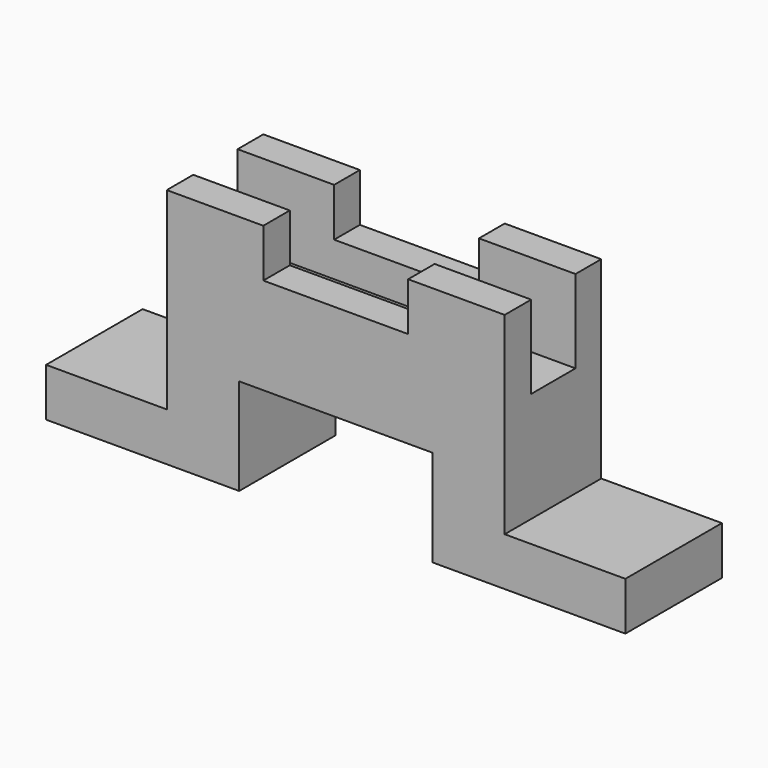
from build123d import *

# Parameters (mm, degrees)
F1_DEPTH = 25
F2_W     = 11.483927
F2_H     = 17.204142
F3_DEPTH = 76.6


with BuildPart() as f1:
    # F0 (on Front) → F1 (new body)
    with BuildSketch(Plane.XZ):
        Polygon((-60, 10), (-60, 0), (-20, 0), (-20, 20), (20, 20), (20, 0), (60, 0), (60, 10), (35, 10), (35, 50), (15, 50), (15, 40), (-15, 40), (-15, 50), (-35, 50), (-35, 10), align=None)
    extrude(amount=F1_DEPTH)

    # F2 (on face) → F3 (cut)
    with BuildSketch(Plane(origin=(-35, 0, 0), x_dir=(0, -1, 0), z_dir=(-1, 0, 0))):
        with Locations((12.402802, 41.397929)):
            Rectangle(F2_W, F2_H)
    extrude(amount=-F3_DEPTH, mode=Mode.SUBTRACT)


solid = f1.part
